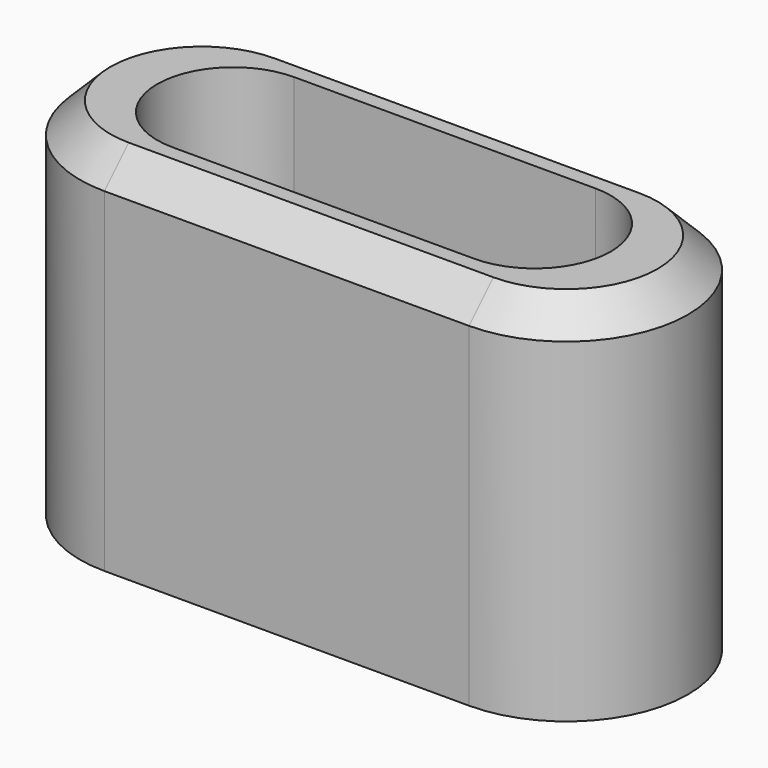
from build123d import *

# Parameters (mm, degrees)
F1_DEPTH = 60
F2_SIZE2 = 5
F2_SIZE  = 5


with BuildPart() as f1:
    # F0 (on Top) → F1 (new body)
    with BuildSketch(Plane.XY):
        with BuildLine():
            Line((30, 20), (0, 20))
            Line((0, 20), (-30, 20))
            ThreePointArc((-30, 20), (-50, 0), (-30, -20))
            Line((-30, -20), (0, -20))
            Line((0, -20), (30, -20))
            ThreePointArc((30, -20), (50, 0), (30, 20))
        make_face()
        with BuildLine():
            Line((-30, 15), (0, 15))
            Line((0, 15), (30, 15))
            ThreePointArc((30, 15), (45, 0), (30, -15))
            Line((30, -15), (0, -15))
            Line((0, -15), (-30, -15))
            ThreePointArc((-30, -15), (-45, 0), (-30, 15))
        make_face(mode=Mode.SUBTRACT)
        with BuildLine():
            Line((30, 15), (0, 15))
            Line((0, 15), (-30, 15))
            ThreePointArc((-30, 15), (-45, 0), (-30, -15))
            Line((-30, -15), (0, -15))
            Line((0, -15), (30, -15))
            ThreePointArc((30, -15), (45, 0), (30, 15))
        make_face()
        with BuildLine():
            Line((24.7928556055, -12.5), (0, -12.5))
            Line((0, -12.5), (-24.7928556055, -12.5))
            ThreePointArc((-24.7928556055, -12.5), (-37.2928556055, 0), (-24.7928556055, 12.5))
            Line((-24.7928556055, 12.5), (0, 12.5))
            Line((0, 12.5), (24.7928556055, 12.5))
            ThreePointArc((24.7928556055, 12.5), (37.2928556055, 0), (24.7928556055, -12.5))
        make_face(mode=Mode.SUBTRACT)
    extrude(amount=F1_DEPTH)

    # F2
    f2_edges = [f1.edges().sort_by_distance(p)[0] for p in [
        (-50, 0, 60),
    ]]
    chamfer(f2_edges, length=F2_SIZE, length2=F2_SIZE2)


solid = f1.part
